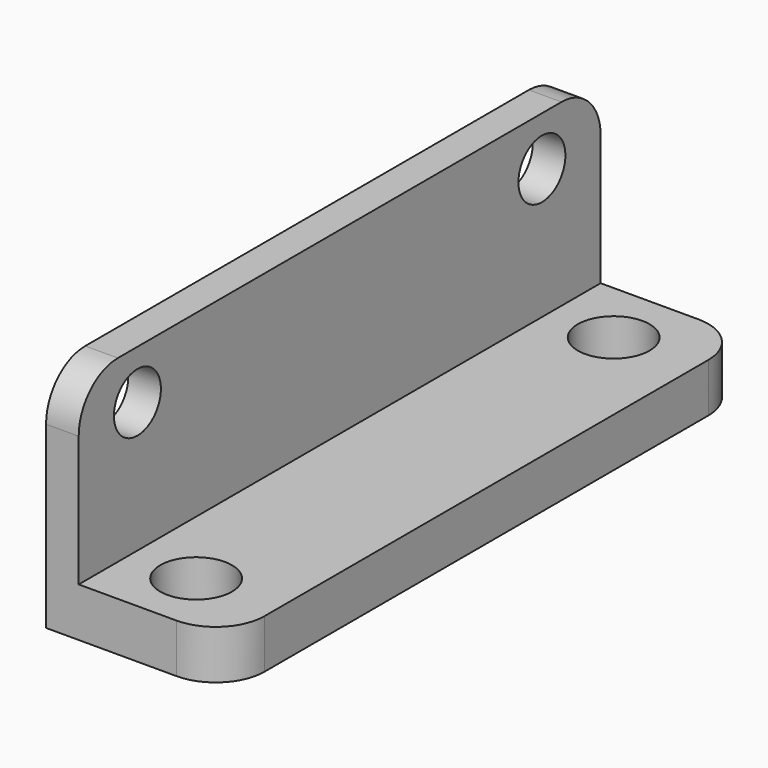
from build123d import *

# Parameters (mm, degrees)
CYLINDER001_R         = 2.2
CYLINDER001_DEPTH     = 10
ARRAY001_Y_COUNT      = 2
ARRAY001_Y_PITCH      = 32
CYLINDER_R            = 1.8
CYLINDER_DEPTH        = 10
ARRAY_Y_COUNT         = 2
ARRAY_Y_PITCH         = 31
ARRAY_PLACEMENT_ANGLE = 90
BOX001_W              = 2
BOX001_H              = 40
BOX001_DEPTH          = 11
FILLET001_R           = 3
BOX_W                 = 11
BOX_H                 = 40
BOX_DEPTH             = 3
FILLET_R              = 3


with BuildPart() as pcb_hole_array:
    # Cylinder001 → Cylinder001 (new body)
    with BuildSketch(Plane.XY):
        Circle(CYLINDER001_R)
    extrude(amount=CYLINDER001_DEPTH)

    # Array001 Y: pcb hole array ×2


with BuildPart() as pcb_hole_array_1:
    add(pcb_hole_array.part)
    with Locations(*[(0, i * ARRAY001_Y_PITCH, 0) for i in range(1, ARRAY001_Y_COUNT)]):
        add(pcb_hole_array.part)


with BuildPart() as pcb_hole_array_2:
    # Array001 placement: moved
    add(pcb_hole_array_1.part.moved(Location((6, 4, -3))))


with BuildPart() as fusion:
    # Cylinder → Cylinder (new body)
    with BuildSketch(Plane.XY):
        Circle(CYLINDER_R)
    extrude(amount=CYLINDER_DEPTH)

    # Array Y: Fusion ×2


with BuildPart() as fusion_1:
    add(fusion.part)
    with Locations(*[(0, i * ARRAY_Y_PITCH, 0) for i in range(1, ARRAY_Y_COUNT)]):
        add(fusion.part)


with BuildPart() as fusion_2:
    # Array placement: moved
    add(fusion_1.part.moved(Location((0, 4.5, 8))).rotate(Axis((0, 4.5, 8), (0, 1, 0)), ARRAY_PLACEMENT_ANGLE))

    # Fusion: union pcb hole array
    add(pcb_hole_array_2.part)


with BuildPart() as fillet001:
    # Box001 → Box001 (new body)
    with BuildSketch(Plane.XY):
        with Locations((1, 20)):
            Rectangle(BOX001_W, BOX001_H)
    extrude(amount=BOX001_DEPTH)

    # Fillet001
    fillet001_edges = [fillet001.edges().sort_by_distance(p)[0] for p in [
        (1, 0, 11),
        (1, 40, 11),
    ]]
    fillet(fillet001_edges, radius=FILLET001_R)


with BuildPart() as cut:
    # Box → Box (new body)
    with BuildSketch(Plane.XY.offset(-3)):
        with Locations((5.5, 20)):
            Rectangle(BOX_W, BOX_H)
    extrude(amount=BOX_DEPTH)

    # Fillet
    fillet_edges = [cut.edges().sort_by_distance(p)[0] for p in [
        (11, 0, -1.5),
        (11, 40, -1.5),
    ]]
    fillet(fillet_edges, radius=FILLET_R)

    # Fusion001: union Fillet001
    add(fillet001.part)

    # Cut: cut Fusion
    add(fusion_2.part, mode=Mode.SUBTRACT)


solid = cut.part
